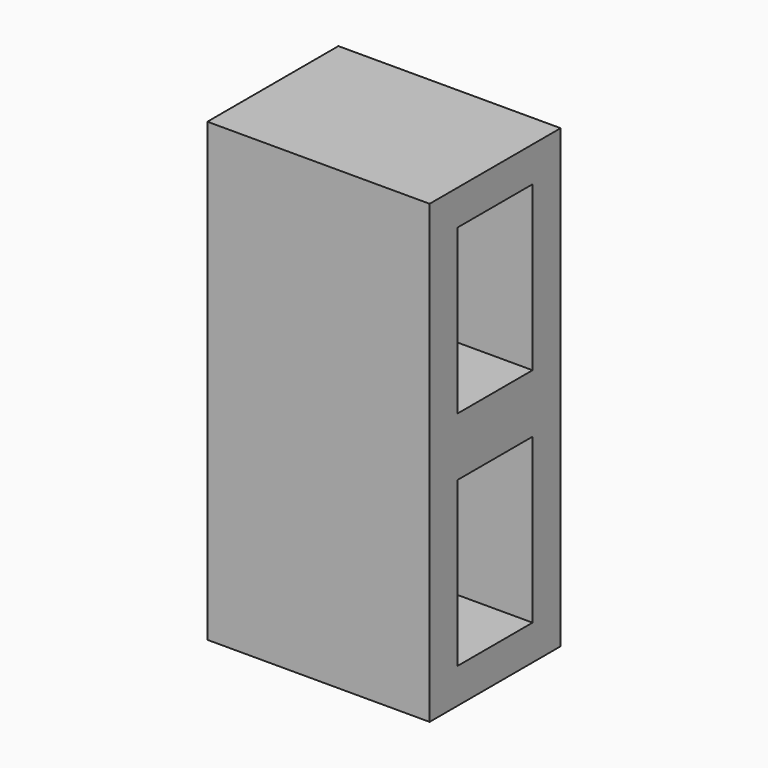
from build123d import *

# Parameters (mm, degrees)
BOX026_W               = 140
BOX026_H               = 80
BOX026_DEPTH           = 190
BOX027_W               = 140
BOX027_H               = 80
BOX027_DEPTH           = 190
BOX028_W               = 390
BOX028_H               = 140
BOX028_DEPTH           = 190
CUT005_PLACEMENT_ANGLE = 90


with BuildPart() as cube016:
    # Box026 → Box026 (new body)
    with BuildSketch(Plane(origin=(220, 30, 0), x_dir=(1, 0, 0), z_dir=(0, 0, 1))):
        with Locations((70, 40)):
            Rectangle(BOX026_W, BOX026_H)
    extrude(amount=BOX026_DEPTH)


with BuildPart() as fusion008:
    # Box027 → Box027 (new body)
    with BuildSketch(Plane(origin=(30, 30, 0), x_dir=(1, 0, 0), z_dir=(0, 0, 1))):
        with Locations((70, 40)):
            Rectangle(BOX027_W, BOX027_H)
    extrude(amount=BOX027_DEPTH)

    # Fusion008: union Cube016
    add(cube016.part)


with BuildPart() as cut005:
    # Box028 → Box028 (new body)
    with BuildSketch(Plane.XY):
        with Locations((195, 70)):
            Rectangle(BOX028_W, BOX028_H)
    extrude(amount=BOX028_DEPTH)

    # Cut005: cut Fusion008
    add(fusion008.part, mode=Mode.SUBTRACT)


with BuildPart() as cut005_1:
    # Cut005 placement: moved
    add(cut005.part.moved(Location((830, -205, -400))).rotate(Axis((830, -205, -400), (0, 1, 0)), CUT005_PLACEMENT_ANGLE))


solid = cut005_1.part
